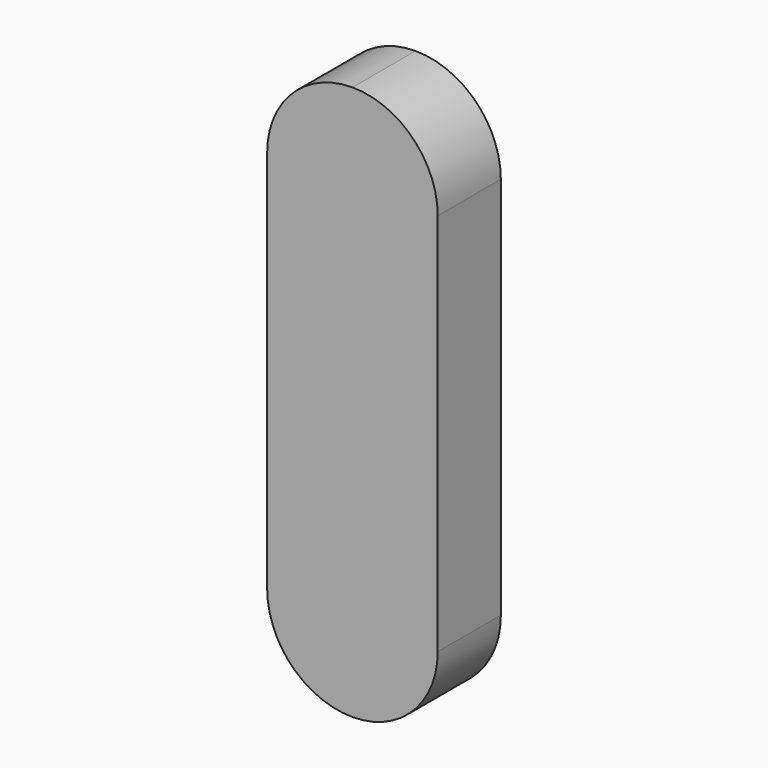
from build123d import *

# Parameters (mm, degrees)
F1_DEPTH = 4.699


with BuildPart() as f1:
    # F0 (on Front) → F1 (new body, symmetric)
    with BuildSketch(Plane.XZ):
        with BuildLine():
            Line((-30.89992, 16.499758), (-30.89992, -6.360242))
            ThreePointArc((-30.89992, -6.360242), (-27.924125, -13.544447), (-20.73992, -16.520242))
            ThreePointArc((-20.73992, -16.520242), (-13.555716, -13.544447), (-10.57992, -6.360242))
            Line((-10.57992, -6.360242), (-10.57992, 16.499758))
            Line((-10.57992, 16.499758), (-10.57992, 39.359758))
            ThreePointArc((-10.57992, 39.359758), (-13.555716, 46.543963), (-20.73992, 49.519758))
            ThreePointArc((-20.73992, 49.519758), (-27.924125, 46.543963), (-30.89992, 39.359758))
            Line((-30.89992, 39.359758), (-30.89992, 16.499758))
        make_face()
    extrude(amount=F1_DEPTH, both=True)


solid = f1.part
